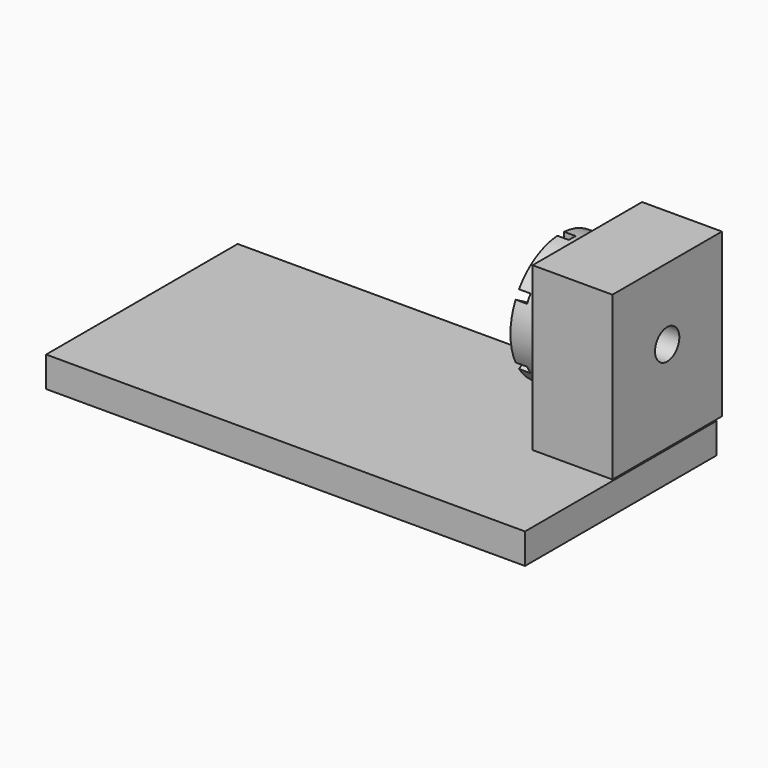
from build123d import *

# Parameters (mm, degrees)
F0_W     = 800
F0_H     = 400
F1_DEPTH = 50.8
F2_W     = 133.35
F2_H     = 14.3
F2_H_2   = 214.3
F3_DEPTH = 271.78
F4_R     = 105
F5_DEPTH = 44.45
F7_DEPTH = 19.304
F8_R     = 25.4
F9_DEPTH = 180.341


with BuildPart() as f1:
    # F0 (on Top) → F1 (new body)
    with BuildSketch(Plane.XY):
        Rectangle(F0_W, F0_H)
    extrude(amount=F1_DEPTH)


with BuildPart() as f3:
    # F2 (on face) → F3 (new body)
    with BuildSketch(Plane.XY.offset(50.8)):
        with Locations((330.785, 207.15)):
            Rectangle(F2_W, F2_H)
        with Locations((330.785, 92.85)):
            Rectangle(F2_W, F2_H_2)
    extrude(amount=F3_DEPTH)

    # F4 (on face) → F5 (join)
    with BuildSketch(Plane(origin=(264.11, 0, 0), x_dir=(0, -1, 0), z_dir=(-1, 0, 0))):
        with Locations((-100, 203.2)):
            Circle(F4_R)
    extrude(amount=F5_DEPTH)

    # F6 (on face) → F7 (cut)
    with BuildSketch(Plane(origin=(219.66, 0, 0), x_dir=(0, -1, 0), z_dir=(-1, 0, 0))):
        with BuildLine():
            Line((-107.1374, 308.2), (-107.1374, 250.825))
            ThreePointArc((-107.1374, 250.825), (-100, 243.6876), (-92.8626, 250.825))
            Line((-92.8626, 250.825), (-92.8626, 308.2))
            ThreePointArc((-92.8626, 308.2), (-100, 315.3374), (-107.1374, 308.2))
        make_face()
        with BuildLine():
            Line((-92.8626, 98.2), (-92.8626, 143.129))
            ThreePointArc((-92.8626, 143.129), (-100, 150.2664), (-107.1374, 143.129))
            Line((-107.1374, 143.129), (-107.1374, 98.2))
            ThreePointArc((-107.1374, 98.2), (-100, 91.0626), (-92.8626, 98.2))
        make_face()
        with BuildLine():
            ThreePointArc((-137.67576, 173.20633), (-135.06329, 182.9562), (-144.81316, 185.56867))
            Line((-144.81316, 185.56867), (-194.501367, 156.88117))
            ThreePointArc((-194.501367, 156.88117), (-197.113837, 147.1313), (-187.363967, 144.51883))
            Line((-187.363967, 144.51883), (-137.67576, 173.20633))
        make_face()
        with BuildLine():
            ThreePointArc((-55.18684, 185.56867), (-64.93671, 182.9562), (-62.32424, 173.20633))
            Line((-62.32424, 173.20633), (-12.636033, 144.51883))
            ThreePointArc((-12.636033, 144.51883), (-2.886163, 147.1313), (-5.498633, 156.88117))
            Line((-5.498633, 156.88117), (-55.18684, 185.56867))
        make_face()
        with BuildLine():
            ThreePointArc((-51.545688, 239.41667), (-54.158158, 229.6668), (-44.408288, 227.05433))
            Line((-44.408288, 227.05433), (-5.498633, 249.51883))
            ThreePointArc((-5.498633, 249.51883), (-2.886163, 259.2687), (-12.636033, 261.88117))
            Line((-12.636033, 261.88117), (-51.545688, 239.41667))
        make_face()
        with BuildLine():
            ThreePointArc((-155.591712, 227.05433), (-145.841842, 229.6668), (-148.454312, 239.41667))
            Line((-148.454312, 239.41667), (-187.363967, 261.88117))
            ThreePointArc((-187.363967, 261.88117), (-197.113837, 259.2687), (-194.501367, 249.51883))
            Line((-194.501367, 249.51883), (-155.591712, 227.05433))
        make_face()
    extrude(amount=-F7_DEPTH, mode=Mode.SUBTRACT)

    # F8 (on face) → F9 (cut, through all)
    with BuildSketch(Plane(origin=(219.66, 0, 0), x_dir=(0, -1, 0), z_dir=(-1, 0, 0))):
        with Locations((-100, 203.2)):
            Circle(F8_R)
    extrude(amount=-F9_DEPTH, mode=Mode.SUBTRACT)


solid = Compound([f1.part, f3.part])
